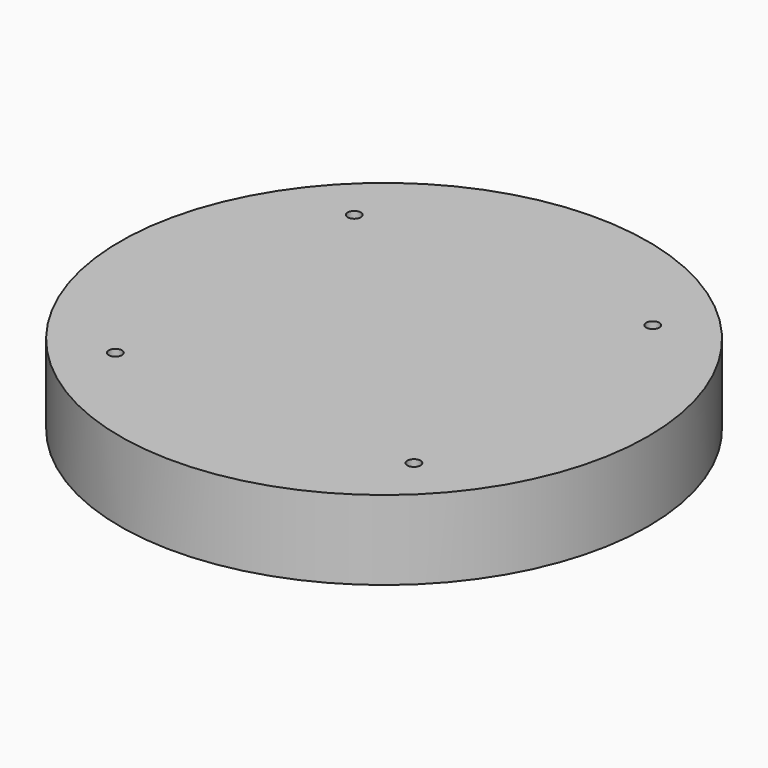
from build123d import *

# Parameters (mm, degrees)
F0_R     = 63.453437
F0_R_2   = 3.689895
F1_DEPTH = 19.05
F0_R_3   = 1.586336
F2_DEPTH = 16


with BuildPart() as f1:
    # F0 (on Top) → F1 (new body)
    with BuildSketch(Plane.XY):
        with Locations((77.763035, -75.807382)):
            Circle(F0_R)
        with Locations((41.874938, -111.695483)):
            Circle(F0_R_2, mode=Mode.SUBTRACT)
        with Locations((113.651134, -111.695481)):
            Circle(F0_R_2, mode=Mode.SUBTRACT)
        with Locations((41.874936, -39.919283)):
            Circle(F0_R_2, mode=Mode.SUBTRACT)
        with Locations((113.651136, -39.919285)):
            Circle(F0_R_2, mode=Mode.SUBTRACT)
    extrude(amount=-F1_DEPTH)

    # F0 (on Top) → F2 (join)
    with BuildSketch(Plane.XY):
        with Locations((41.874936, -39.919283)):
            Circle(F0_R_2)
        with Locations((41.874936, -39.919283)):
            Circle(F0_R_3, mode=Mode.SUBTRACT)
        with Locations((113.651136, -39.919285)):
            Circle(F0_R_2)
        with Locations((113.651136, -39.919285)):
            Circle(F0_R_3, mode=Mode.SUBTRACT)
        with Locations((113.651134, -111.695481)):
            Circle(F0_R_2)
        with Locations((113.651134, -111.695481)):
            Circle(F0_R_3, mode=Mode.SUBTRACT)
        with Locations((41.874938, -111.695483)):
            Circle(F0_R_2)
        with Locations((41.874938, -111.695483)):
            Circle(F0_R_3, mode=Mode.SUBTRACT)
    extrude(amount=-F2_DEPTH)


solid = f1.part
